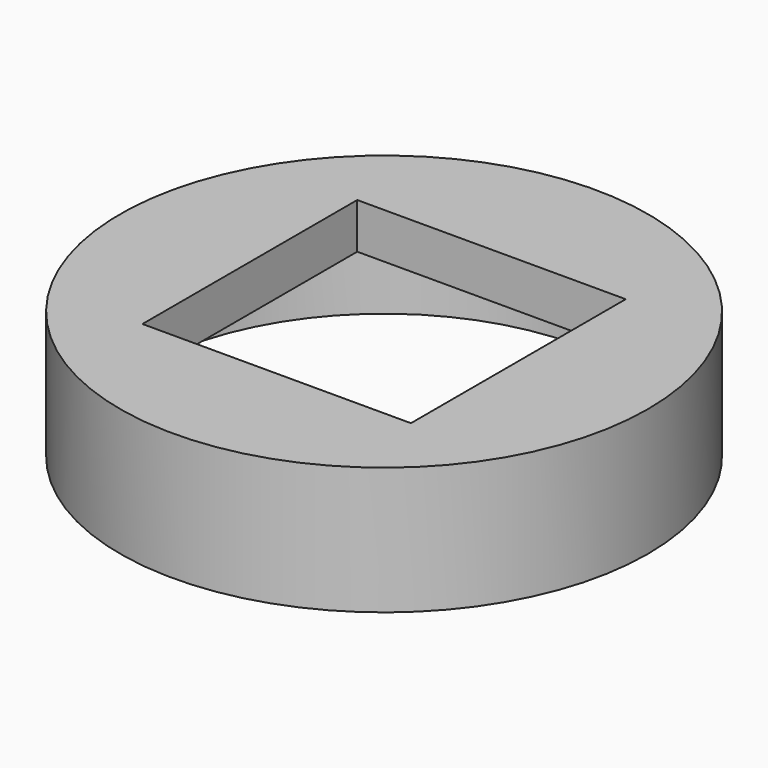
from build123d import *

# Parameters (mm, degrees)
F0_R     = 29
F1_DEPTH = 14
F2_W     = 29.5
F2_H     = 29.5
F3_DEPTH = 25
F4_R     = 26.5
F5_DEPTH = 9


with BuildPart() as f1:
    # F0 (on Top) → F1 (new body)
    with BuildSketch(Plane.XY):
        Circle(F0_R)
    extrude(amount=F1_DEPTH)

    # F2 (on face) → F3 (cut)
    with BuildSketch(Plane.XY.offset(14)):
        Rectangle(F2_W, F2_H)
    extrude(amount=-F3_DEPTH, mode=Mode.SUBTRACT)

    # F4 (on face) → F5 (cut)
    with BuildSketch(Plane(origin=(0, 0, 0), x_dir=(1, 0, 0), z_dir=(0, 0, -1))):
        Circle(F4_R)
    extrude(amount=-F5_DEPTH, mode=Mode.SUBTRACT)


solid = f1.part
